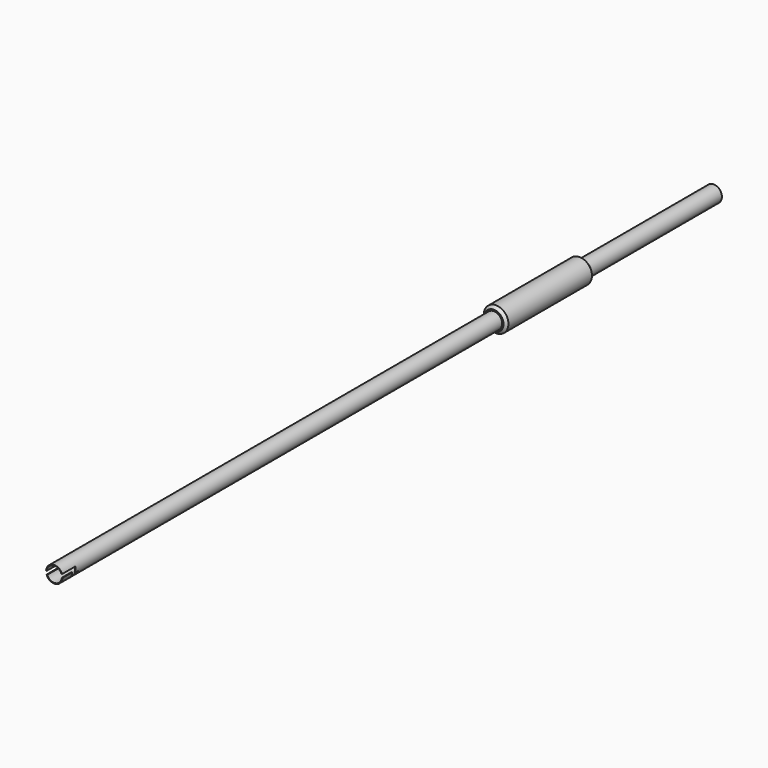
from build123d import *

# Parameters (mm, degrees)
F0_R      = 15
F1_DEPTH  = 1500
F2_R      = 13.75
F3_DEPTH  = 3000
F7_DEPTH  = 10
F9_DEPTH  = 10
F12_R     = 22.5
F13_DEPTH = 200
F14_SIZE  = 5


with BuildPart() as f1:
    # F0 (on Front) → F1 (new body)
    with BuildSketch(Plane.XZ):
        Circle(F0_R)
    extrude(amount=-F1_DEPTH)

    # F2 (on face) → F3 (cut)
    with BuildSketch(Plane.XZ):
        Circle(F2_R)
    extrude(amount=-F3_DEPTH, mode=Mode.SUBTRACT)

    # F6 (on offset) → F7 (cut)
    with BuildSketch(Plane.YZ.offset(15)):
        Polygon((30, 5), (0, 5), (0, -1), (22, -1), (22, -11), (38, -11), (38, -5), (30, -5), align=None)
    extrude(amount=-F7_DEPTH, mode=Mode.SUBTRACT)

    # F8 (on offset) → F9 (cut)
    with BuildSketch(Plane.YZ.offset(-15)):
        Polygon((22, 1), (0, 1), (0, -5), (30, -5), (30, 5), (38, 5), (38, 11), (22, 11), align=None)
    extrude(amount=F9_DEPTH, mode=Mode.SUBTRACT)

    # F12 (on offset) → F13 (join)
    with BuildSketch(Plane.XZ.offset(-1200)):
        Circle(F12_R)
    extrude(amount=F13_DEPTH)

    # F14
    f14_edges = [f1.edges().sort_by_distance(p)[0] for p in [
        (22.5, 1100, 0),
        (-22.5, 1200, 0),
        (-22.5, 1000, 0),
    ]]
    chamfer(f14_edges, length=F14_SIZE)


solid = f1.part
